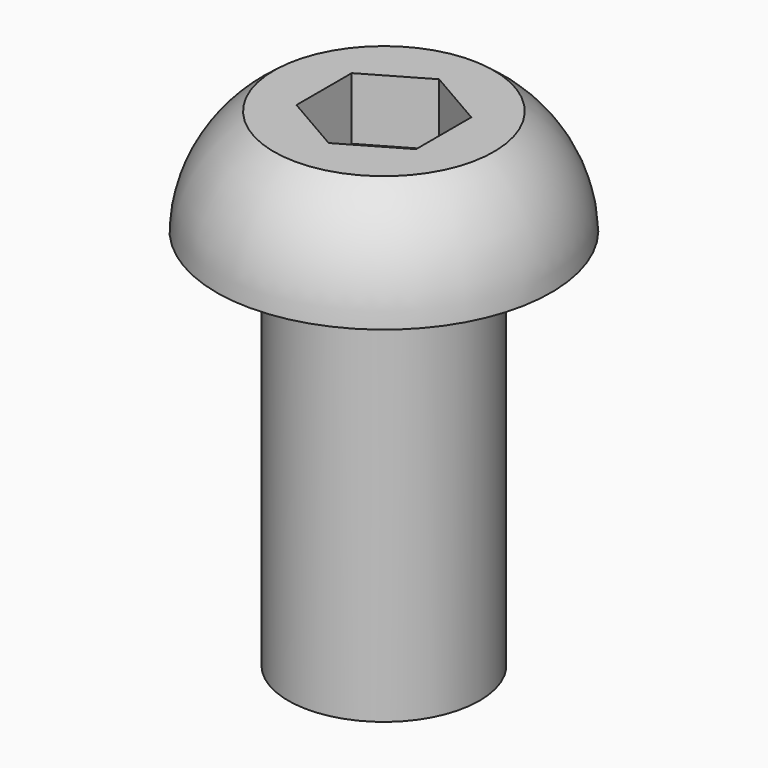
from build123d import *

# Parameters (mm, degrees)
F0_R     = 7
F1_DEPTH = 4.4
F3_DEPTH = 2.6
F6_R     = 4
F7_DEPTH = 16


with BuildPart() as f1:
    # F0 (on Top) → F1 (new body)
    with BuildSketch(Plane.XY):
        Circle(F0_R)
    extrude(amount=F1_DEPTH)

    # F2 (on face) → F3 (cut)
    with BuildSketch(Plane.XY.offset(4.4)):
        Polygon((2.5, -1.443376), (2.5, 1.443376), (0, 2.886751), (-2.5, 1.443376), (-2.5, -1.443376), (0, -2.886751), align=None)
    extrude(amount=-F3_DEPTH, mode=Mode.SUBTRACT)

    # F4 (on Right) → F5 (revolve, cut)
    with BuildSketch(Plane.YZ):
        with BuildLine():
            Line((-7, 4.4), (-7, 0))
            ThreePointArc((-7, 0), (-6.319513, 2.483371), (-4.6, 4.4))
            Line((-4.6, 4.4), (-7, 4.4))
        make_face()
    revolve(axis=Axis((0, 0, 2.2), (0, 0, 1)), mode=Mode.SUBTRACT)

    # F6 (on Top) → F7 (join)
    with BuildSketch(Plane.XY):
        Circle(F6_R)
    extrude(amount=-F7_DEPTH)


solid = f1.part
